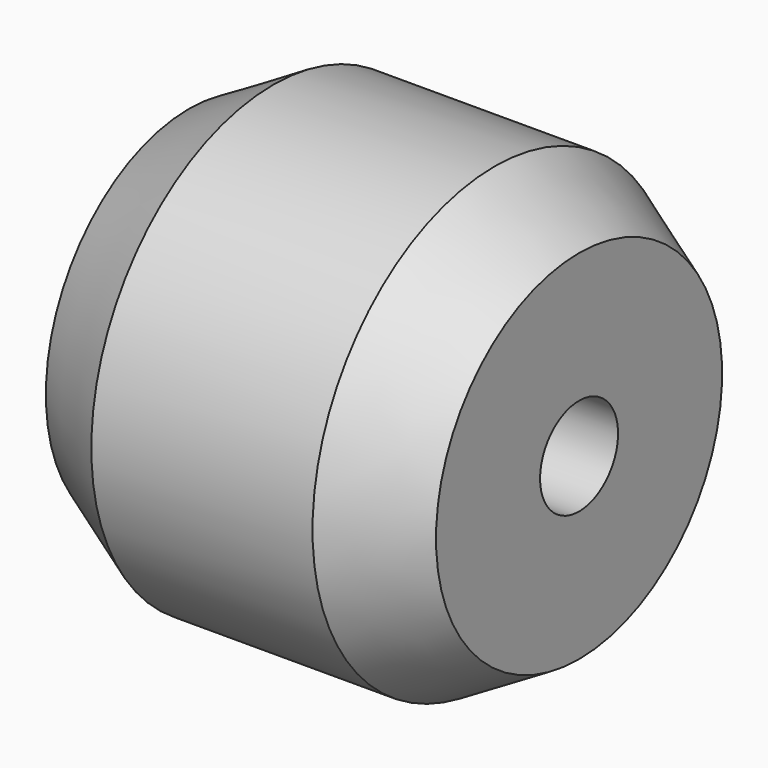
from build123d import *

# Parameters (mm, degrees)
F2_R     = 4.7625
F3_DEPTH = 38.101


with BuildPart() as f1:
    # F0 (on Front) → F1 (revolve)
    with BuildSketch(Plane.XZ):
        Polygon((0, 17.4625), (0, 0), (38.1, 0), (38.1, 17.4625), (29.851108, 22.225), (8.248892, 22.225), align=None)
    revolve(axis=Axis((19.05, 0, 0), (1, 0, 0)))

    # F2 (on face) → F3 (cut, through all)
    with BuildSketch(Plane(origin=(0, 0, 0), x_dir=(0, -1, 0), z_dir=(-1, 0, 0))):
        Circle(F2_R)
        with Locations((0, -38.1)):
            Circle(F2_R)
    extrude(amount=-F3_DEPTH, mode=Mode.SUBTRACT)


solid = f1.part
